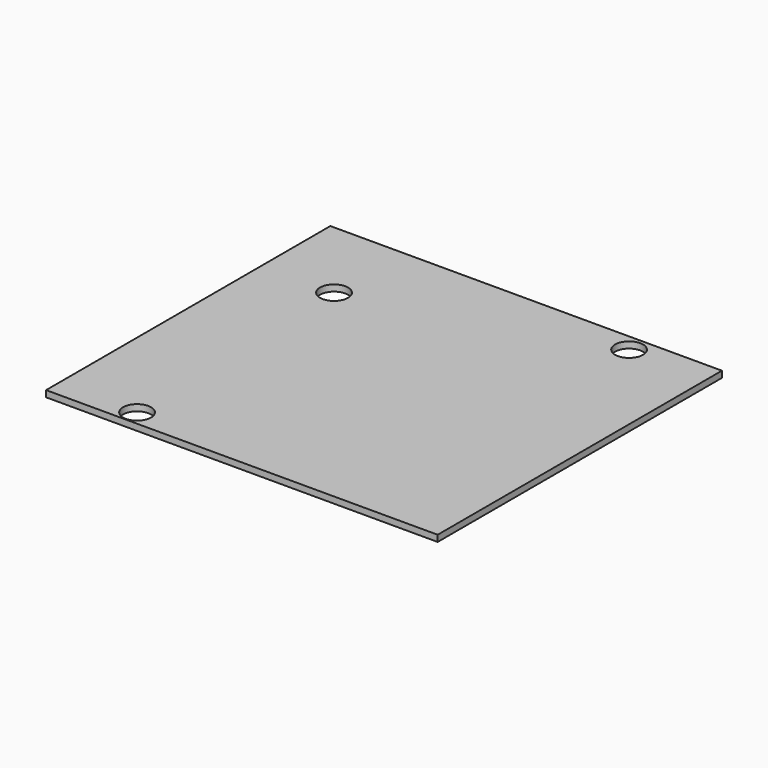
from build123d import *

# Parameters (mm, degrees)
SKETCH015_W     = 123.1
SKETCH015_H     = 111.7
PAD003_DEPTH    = 2
SKETCH020_R     = 4.4
POCKET010_DEPTH = 2.2
SKETCH021_R     = 4.4
POCKET011_DEPTH = 5.71
SKETCH022_R     = 4.4
POCKET012_DEPTH = 5.71


with BuildPart() as part:
    # Sketch015 → Pad003 (new body)
    with BuildSketch(Plane.XY.offset(-7.2)):
        Rectangle(SKETCH015_W, SKETCH015_H)
    extrude(amount=PAD003_DEPTH)

    # Sketch020 → Pocket010 (cut)
    with BuildSketch(Plane.XY.offset(-7.2)):
        with Locations((-36.708672, -51.151615)):
            Circle(SKETCH020_R)
    extrude(amount=POCKET010_DEPTH, mode=Mode.SUBTRACT)

    # Sketch021 → Pocket011 (cut)
    with BuildSketch(Plane(origin=(-2, 79.9, -7.2), x_dir=(1, 0, 0), z_dir=(0, 0, 1))):
        with Locations((-36.708672, -51.151615)):
            Circle(SKETCH021_R)
    extrude(amount=POCKET011_DEPTH, mode=Mode.SUBTRACT)

    # Sketch022 → Pocket012 (cut)
    with BuildSketch(Plane(origin=(73.48, 101.5, -7.2), x_dir=(1, 0, 0), z_dir=(0, 0, 1))):
        with Locations((-36.708672, -51.151615)):
            Circle(SKETCH022_R)
    extrude(amount=POCKET012_DEPTH, mode=Mode.SUBTRACT)


solid = part.part
